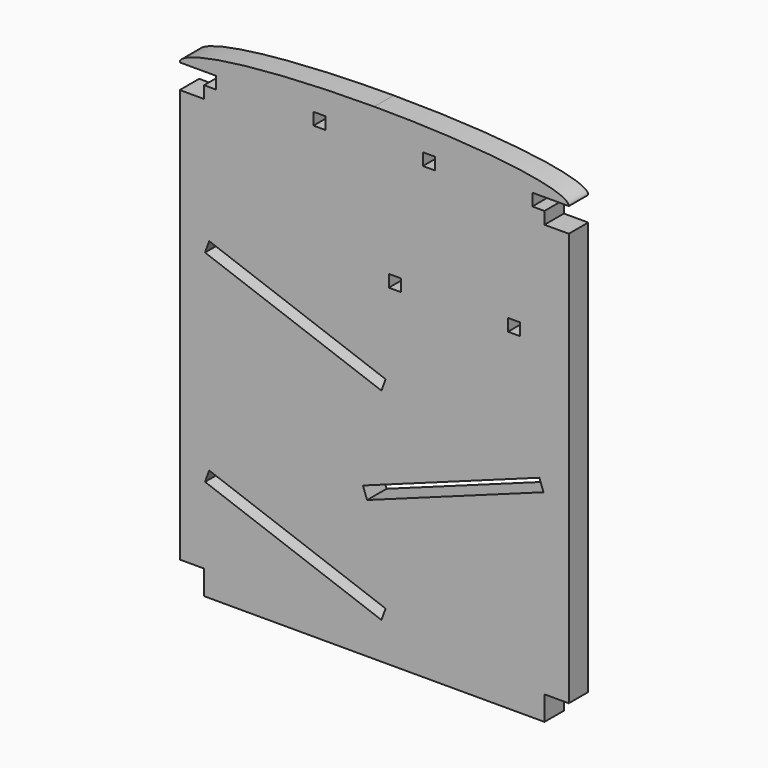
from build123d import *

# Parameters (mm, degrees)
F0_W      = 101.6
F0_H      = 127
F1_DEPTH  = 6.35
F2_W      = 6.35
F2_H      = 6.35
F3_DEPTH  = 6.351
F5_DEPTH  = 6.351
F6_W      = 3.175
F6_H      = 3.175
F7_DEPTH  = 6.3510001
F9_DEPTH  = 34.798
F11_DEPTH = 25.4
F13_DEPTH = 25.4


with BuildPart() as f1:
    # F0 (on Front) → F1 (new body)
    with BuildSketch(Plane.XZ):
        Rectangle(F0_W, F0_H)
    extrude(amount=F1_DEPTH)

    # F2 (on face) → F3 (cut, through all)
    with BuildSketch(Plane.XZ.offset(6.35)):
        with Locations((-47.625, 53.975)):
            Rectangle(F2_W, F2_H)
        with Locations((47.625, 53.975)):
            Rectangle(F2_W, F2_H)
        with Locations((47.625, -60.325)):
            Rectangle(F2_W, F2_H)
        with Locations((-47.625, -60.325)):
            Rectangle(F2_W, F2_H)
    extrude(amount=-F3_DEPTH, mode=Mode.SUBTRACT)

    # F4 (on face) → F5 (cut, through all)
    with BuildSketch(Plane.XZ.offset(6.35)):
        with BuildLine():
            Line((-50.8, 63.5), (-50.8, 57.15))
            add(Edge.make_bspline(
                [(-3.402e-07, 63.5), (-50.8, 63.4999999575), (-50.8, 57.15)],
                knots=[4.7123889871, 4.7123889871, 4.7123889871, 6.2831853072, 6.2831853072, 6.2831853072], degree=2, weights=[1, 0.7071067836, 1]))
            Line((-3.402e-07, 63.5), (-50.8, 63.5))
        make_face()
        with BuildLine():
            add(Edge.make_bspline(
                [(50.8, 57.15), (50.8, 63.5000000425), (-3.402e-07, 63.5)],
                knots=[3.1415926536, 3.1415926536, 3.1415926536, 4.7123889871, 4.7123889871, 4.7123889871], degree=2, weights=[1, 0.7071067788, 1]))
            Line((50.8, 57.15), (50.8, 63.5))
            Line((50.8, 63.5), (-3.402e-07, 63.5))
        make_face()
    extrude(amount=-F5_DEPTH, mode=Mode.SUBTRACT)

    # F6 (on face) → F7 (cut, through all)
    with BuildSketch(Plane.XZ.offset(6.35)):
        with Locations((-42.8625, 55.5625)):
            Rectangle(F6_W, F6_H)
        with Locations((-14.2875, 55.5625)):
            Rectangle(F6_W, F6_H)
        with Locations((14.2875, 55.5625)):
            Rectangle(F6_W, F6_H)
        with Locations((42.8625, 55.5625)):
            Rectangle(F6_W, F6_H)
        with Locations((36.5125, 24.7015)):
            Rectangle(F6_W, F6_H)
        with Locations((5.3975, 24.7015)):
            Rectangle(F6_W, F6_H)
    extrude(amount=-F7_DEPTH, mode=Mode.SUBTRACT)

    # F8 (on Front) → F9 (cut)
    with BuildSketch(Plane.XZ):
        Polygon((2.9555256112, 1.8009109067), (-43.1100860449, 18.5674223729), (-44.196, 15.5838983019), (1.8696116562, -1.1826131642), align=None)
    extrude(amount=F9_DEPTH, mode=Mode.SUBTRACT)

    # F10 (on Front) → F11 (cut)
    with BuildSketch(Plane.XZ):
        Polygon((43.1100860449, -7.7964003764), (-2.9555256112, -24.5629118425), (-1.8696116562, -27.5464359135), (44.196, -10.7799244474), align=None)
    extrude(amount=F11_DEPTH, mode=Mode.SUBTRACT)

    # F12 (on Front) → F13 (cut)
    with BuildSketch(Plane.XZ):
        Polygon((2.9555256112, -50.9267345918), (-43.1100860449, -34.1602231257), (-44.196, -37.1437471967), (1.8696116562, -53.9102586628), align=None)
    extrude(amount=F13_DEPTH, mode=Mode.SUBTRACT)


solid = f1.part
